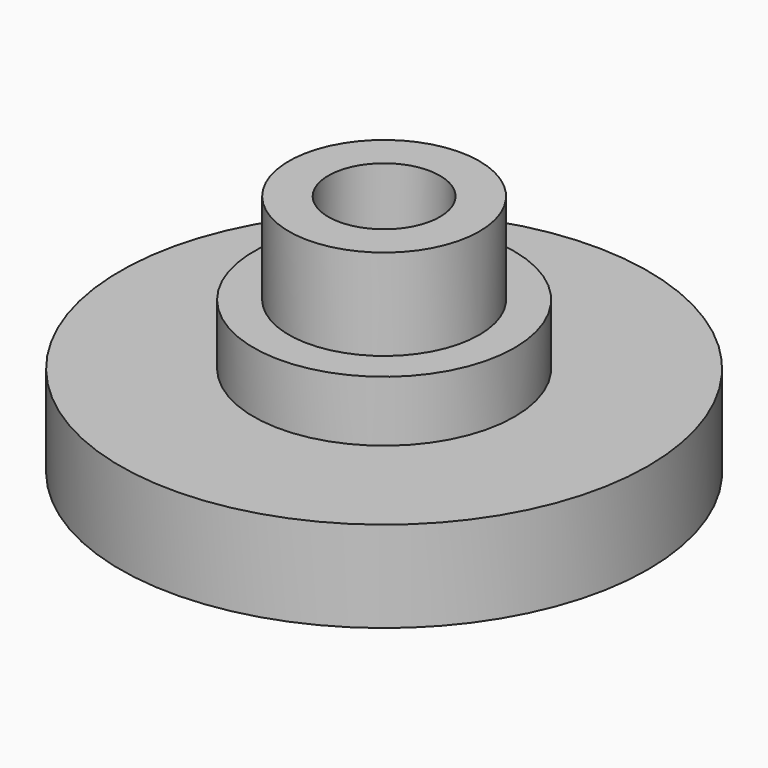
from build123d import *

# Parameters (mm, degrees)
F0_R     = 11.049
F0_R_2   = 2.3368
F1_DEPTH = 3.81
F2_R     = 5.461
F2_R_2   = 2.3368
F3_DEPTH = 6.35
F4_R     = 3.9878
F4_R_2   = 2.3368
F5_DEPTH = 10.16


with BuildPart() as f1:
    # F0 (on Top) → F1 (new body)
    with BuildSketch(Plane.XY):
        Circle(F0_R)
        Circle(F0_R_2, mode=Mode.SUBTRACT)
    extrude(amount=F1_DEPTH)

    # F2 (on Top) → F3 (join)
    with BuildSketch(Plane.XY):
        Circle(F2_R)
        Circle(F2_R_2, mode=Mode.SUBTRACT)
    extrude(amount=F3_DEPTH)

    # F4 (on Top) → F5 (join)
    with BuildSketch(Plane.XY):
        Circle(F4_R)
        Circle(F4_R_2, mode=Mode.SUBTRACT)
    extrude(amount=F5_DEPTH)


solid = f1.part
